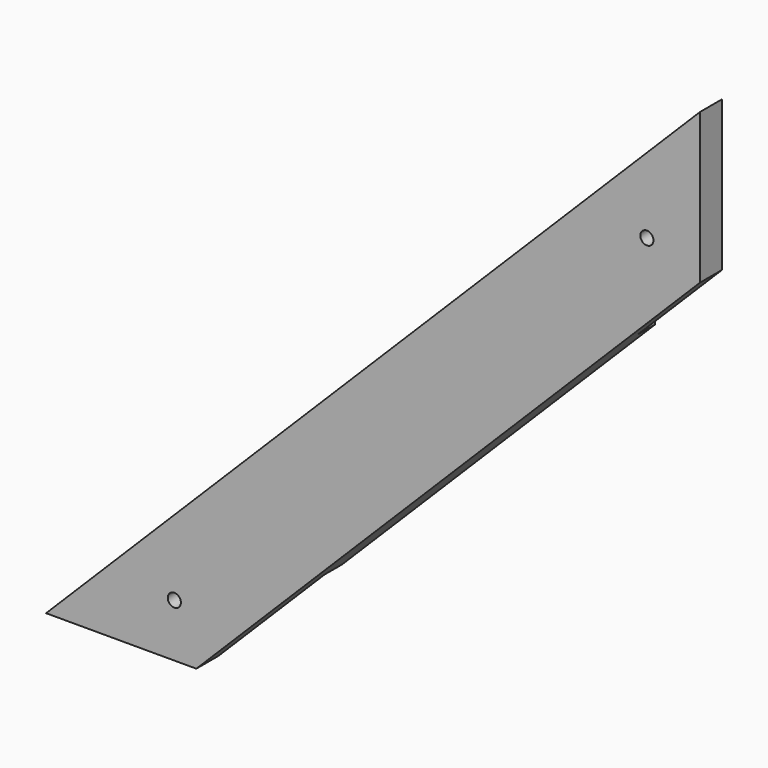
from build123d import *

# Parameters (mm, degrees)
F1_DEPTH = 22.5
F3_DEPTH = 20
F5_DEPTH = 20
F6_R     = 6
F7_DEPTH = 25
F8_R     = 6
F9_DEPTH = 25


with BuildPart() as f1:
    # F0 (on Front) → F1 (new body, symmetric)
    with BuildSketch(Plane.XZ):
        Polygon((264.205321, 195.615963), (264.205321, 332.794679), (-332.794679, -264.205321), (-195.615963, -264.205321), align=None)
    extrude(amount=F1_DEPTH, both=True)

    # F2 (on face) → F3 (cut)
    with BuildSketch(Plane(origin=(0, 22.5, 0), x_dir=(-1, 0, 0), z_dir=(0, 1, 0))):
        Polygon((-187.205321, 235.794679), (-167.205321, 235.794679), (-264.205321, 332.794679), (-264.205321, 195.615963), (-187.205321, 118.615963), align=None)
    extrude(amount=-F3_DEPTH, mode=Mode.SUBTRACT)

    # F4 (on face) → F5 (cut)
    with BuildSketch(Plane(origin=(0, 22.5, 0), x_dir=(-1, 0, 0), z_dir=(0, 1, 0))):
        Polygon((332.794679, -264.205321), (235.794679, -167.205321), (98.615963, -167.205321), (195.615963, -264.205321), align=None)
    extrude(amount=-F5_DEPTH, mode=Mode.SUBTRACT)

    # F6 (on face) → F7 (cut, through all)
    with BuildSketch(Plane(origin=(0, 2.5, 0), x_dir=(-1, 0, 0), z_dir=(0, 1, 0))):
        with Locations((-215.705321, 215.705321)):
            Circle(F6_R)
    extrude(amount=-F7_DEPTH, mode=Mode.SUBTRACT)

    # F8 (on face) → F9 (cut, through all)
    with BuildSketch(Plane(origin=(0, 2.5, 0), x_dir=(-1, 0, 0), z_dir=(0, 1, 0))):
        with Locations((215.705321, -215.705321)):
            Circle(F8_R)
    extrude(amount=-F9_DEPTH, mode=Mode.SUBTRACT)


solid = f1.part
